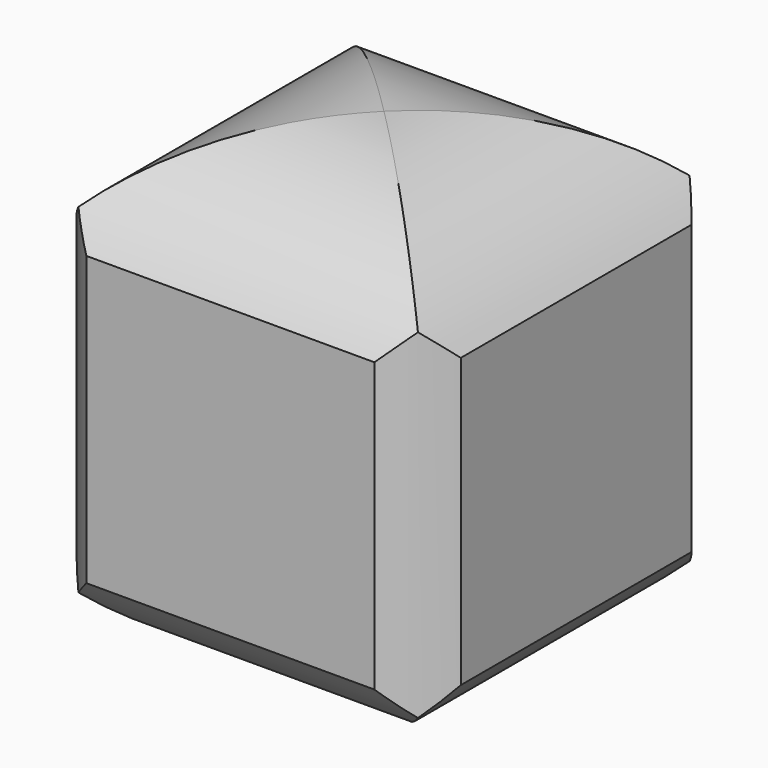
from build123d import *

# Parameters (mm, degrees)
F1_R     = 10
F3_DEPTH = 10
F2_R     = 10
F4_DEPTH = 10
F5_DEPTH = 10
F6_W     = 16
F6_H     = 16
F7_DEPTH = 10


with BuildPart() as f3:
    # F1 (on Top) → F3 (new body, symmetric)
    with BuildSketch(Plane.XY):
        Circle(F1_R)
    extrude(amount=F3_DEPTH, both=True)

    # F2 (on Right) → F4 (intersect, symmetric)
    with BuildSketch(Plane.YZ):
        Circle(F2_R)
    extrude(amount=F4_DEPTH, both=True, mode=Mode.INTERSECT)

    # F0 (on Front) → F5 (intersect, symmetric)
    with BuildSketch(Plane.XZ):
        with BuildLine():
            ThreePointArc((0, -10), (7.071068, -7.071068), (10, 0))
            ThreePointArc((10, 0), (7.071068, 7.071068), (0, 10))
            ThreePointArc((0, 10), (-7.071068, 7.071068), (-10, 0))
            ThreePointArc((-10, 0), (-7.071068, -7.071068), (0, -10))
        make_face()
    extrude(amount=F5_DEPTH, both=True, mode=Mode.INTERSECT)

    # F6 (on Top) → F7 (intersect, symmetric)
    with BuildSketch(Plane.XY):
        Rectangle(F6_W, F6_H)
    extrude(amount=F7_DEPTH, both=True, mode=Mode.INTERSECT)


solid = f3.part
